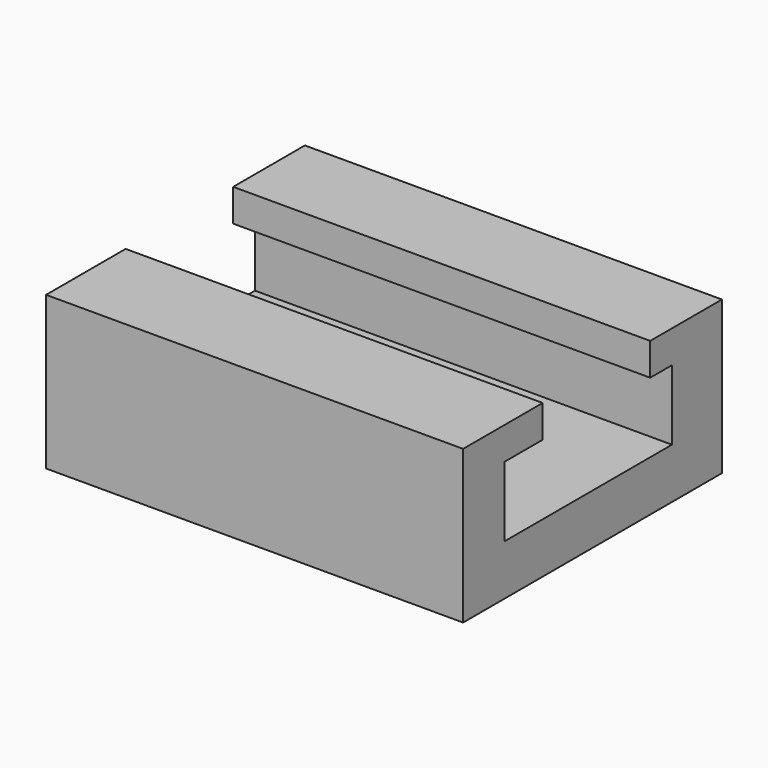
from build123d import *

# Parameters (mm, degrees)
F0_W     = 128.1502880156
F0_H     = 99.4144454598
F1_DEPTH = 46.99
F3_W     = 64.353780821
F3_H     = 21.5152939782
F4_DEPTH = 102.7512880156
F5_W     = 41.3016797975
F5_H     = 23.244202137
F6_DEPTH = 167.894
F7_DEPTH = 64.008
F8_DEPTH = 88.138


with BuildPart() as f1:
    # F0 (on Top) → F1 (new body)
    with BuildSketch(Plane.XY):
        with Locations((15.0564964861, 6.8030394614)):
            Rectangle(F0_W, F0_H)
    extrude(amount=F1_DEPTH)

    # F3 (on offset) → F4 (cut, through all)
    with BuildSketch(Plane(origin=(-23.6186475217, 0, 0), x_dir=(0, -1, 0), z_dir=(-1, 0, 0))):
        with Locations((-5.138698034, 26.2697902508)):
            Rectangle(F3_W, F3_H)
    extrude(amount=-F4_DEPTH, mode=Mode.SUBTRACT)

    # F5 (on offset) → F6 (cut)
    with BuildSketch(Plane(origin=(-23.6186475217, 0, 0), x_dir=(0, -1, 0), z_dir=(-1, 0, 0))):
        with Locations((-8.3083617501, 44.8075197637)):
            Rectangle(F5_W, F5_H)
    extrude(amount=-F6_DEPTH, mode=Mode.SUBTRACT)

    # F3 (on offset) → F7 (cut)
    with BuildSketch(Plane(origin=(-23.6186475217, 0, 0), x_dir=(0, -1, 0), z_dir=(-1, 0, 0))):
        with Locations((-5.138698034, 26.2697902508)):
            Rectangle(F3_W, F3_H)
    extrude(amount=F7_DEPTH, mode=Mode.SUBTRACT)

    # F5 (on offset) → F8 (cut)
    with BuildSketch(Plane(origin=(-23.6186475217, 0, 0), x_dir=(0, -1, 0), z_dir=(-1, 0, 0))):
        with Locations((-8.3083617501, 44.8075197637)):
            Rectangle(F5_W, F5_H)
    extrude(amount=F8_DEPTH, mode=Mode.SUBTRACT)


solid = f1.part
